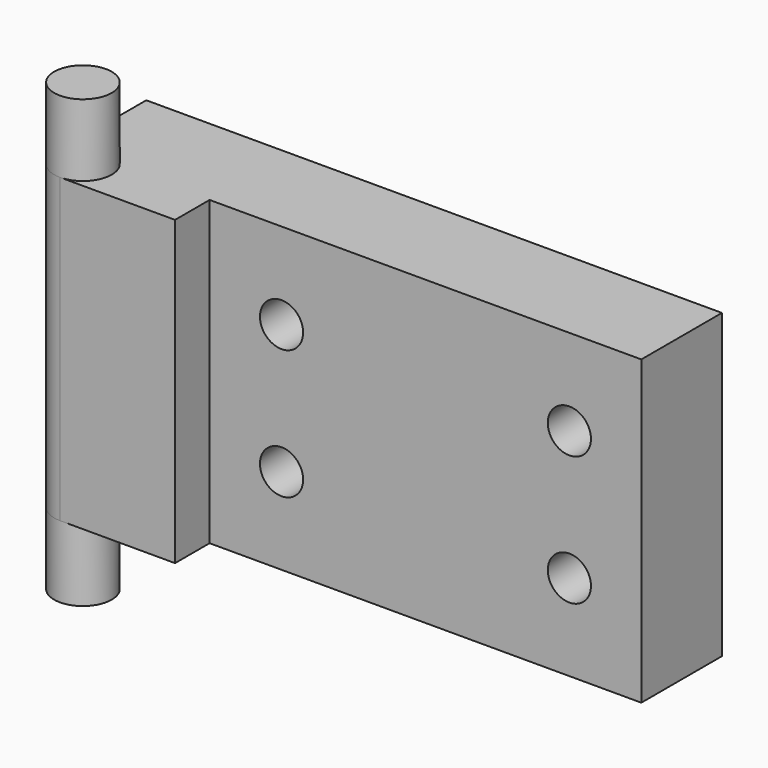
from build123d import *

# Parameters (mm, degrees)
PAD_DEPTH         = 21
SKETCH001_R       = 2
PAD001_DEPTH      = 5
PAD001_DEPTH_BACK = 26
SKETCH002_R       = 1.5
POCKET_DEPTH      = 7.001


with BuildPart() as part:
    # Sketch → Pad (new body)
    with BuildSketch(Plane.XY):
        with BuildLine():
            Line((0, 10), (40, 10))
            Line((40, 10), (40, 3))
            Line((40, 3), (10, 3))
            Line((10, 3), (10, 0))
            Line((10, 0), (2, 0))
            ThreePointArc((0, 2), (0.585786, 0.585786), (2, 0))
            Line((0, 10), (0, 2))
        make_face()
    extrude(amount=PAD_DEPTH)

    # Sketch001 → Pad001 (new body, two sides)
    with BuildSketch(Plane(origin=(0, 0, 0), x_dir=(1, 0, 0), z_dir=(0, 0, -1))) as pad001_sk:
        with Locations((2, -2)):
            Circle(SKETCH001_R)
    extrude(amount=PAD001_DEPTH)
    extrude(pad001_sk.sketch, amount=-PAD001_DEPTH_BACK)

    # Sketch002 → Pocket (cut, through all)
    with BuildSketch(Plane.XZ.offset(-3)):
        with Locations((15, 15)):
            Circle(SKETCH002_R)
        with Locations((35, 15)):
            Circle(SKETCH002_R)
        with Locations((15, 6)):
            Circle(SKETCH002_R)
        with Locations((35, 6)):
            Circle(SKETCH002_R)
    extrude(amount=-POCKET_DEPTH, mode=Mode.SUBTRACT)


solid = part.part
